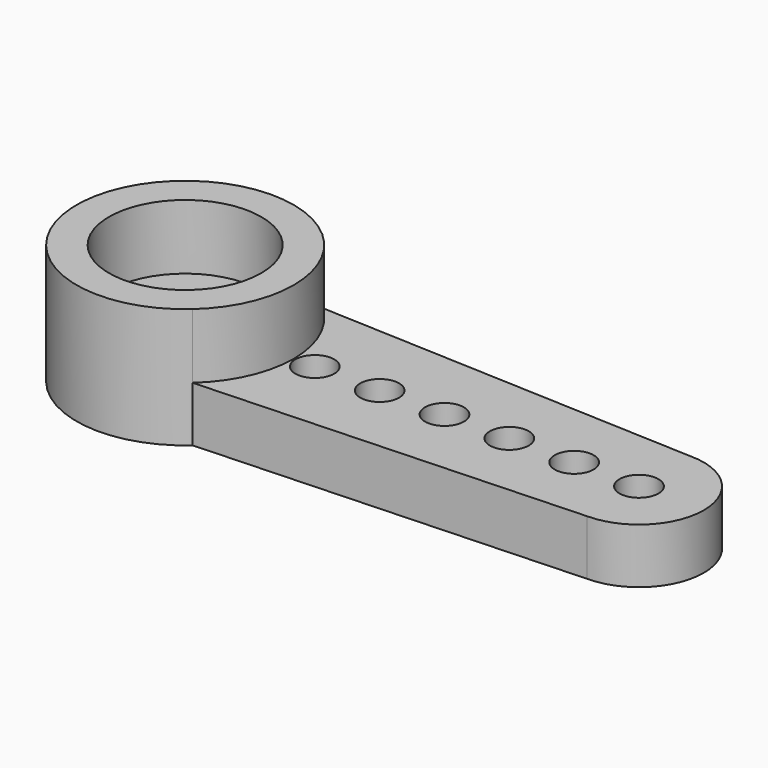
from build123d import *

# Parameters (mm, degrees)
F0_R     = 0.6
F1_DEPTH = 1.7
F3_DEPTH = 2
F5_DEPTH = 1
F6_R     = 1.1
F7_DEPTH = 2.701
F8_R     = 2.35
F9_DEPTH = 2


with BuildPart() as f1:
    # F0 (on Top) → F1 (new body)
    with BuildSketch(Plane.XY):
        with BuildLine():
            ThreePointArc((2.2299103121, -2.5), (3.057180036, -1.369726333), (3.35, 0))
            ThreePointArc((3.35, 0), (3.057180036, 1.369726333), (2.2299103121, 2.5))
            ThreePointArc((2.2299103121, 2.5), (-3.35, 0), (2.2299103121, -2.5))
        make_face()
        with BuildLine():
            ThreePointArc((2.2299103121, 2.5), (3.057180036, 1.369726333), (3.35, 0))
            ThreePointArc((3.35, 0), (3.057180036, -1.369726333), (2.2299103121, -2.5))
            Line((2.2299103121, -2.5), (14, -2))
            ThreePointArc((14, -2), (16, 0), (14, 2))
            Line((14, 2), (2.2299103121, 2.5))
        make_face()
        with Locations((4, 0)):
            Circle(F0_R, mode=Mode.SUBTRACT)
        with Locations((6, 0)):
            Circle(F0_R, mode=Mode.SUBTRACT)
        with Locations((8, 0)):
            Circle(F0_R, mode=Mode.SUBTRACT)
        with Locations((10, 0)):
            Circle(F0_R, mode=Mode.SUBTRACT)
        with Locations((12, 0)):
            Circle(F0_R, mode=Mode.SUBTRACT)
        with Locations((14, 0)):
            Circle(F0_R, mode=Mode.SUBTRACT)
    extrude(amount=F1_DEPTH)

    # F2 (on face) → F3 (join)
    with BuildSketch(Plane.XY.offset(1.7)):
        with BuildLine():
            ThreePointArc((2.2299103121, -2.5), (3.35, 0), (2.2299103121, 2.5))
            ThreePointArc((2.2299103121, 2.5), (-3.35, 0), (2.2299103121, -2.5))
        make_face()
    extrude(amount=F3_DEPTH)

    # F4 (on face) → F5 (cut)
    with BuildSketch(Plane(origin=(0, 0, 0), x_dir=(1, 0, 0), z_dir=(0, 0, -1))):
        with BuildLine():
            ThreePointArc((1.5642654428, 1.7537313433), (-2.35, 0), (1.5642654428, -1.7537313433))
            ThreePointArc((1.5642654428, -1.7537313433), (2.35, 0), (1.5642654428, 1.7537313433))
        make_face()
    extrude(amount=-F5_DEPTH, mode=Mode.SUBTRACT)

    # F6 (on face) → F7 (cut, through all)
    with BuildSketch(Plane(origin=(0, 0, 1), x_dir=(1, 0, 0), z_dir=(0, 0, -1))):
        Circle(F6_R)
    extrude(amount=-F7_DEPTH, mode=Mode.SUBTRACT)

    # F8 (on face) → F9 (cut, through all)
    with BuildSketch(Plane.XY.offset(3.7)):
        Circle(F8_R)
    extrude(amount=-F9_DEPTH, mode=Mode.SUBTRACT)


solid = f1.part
